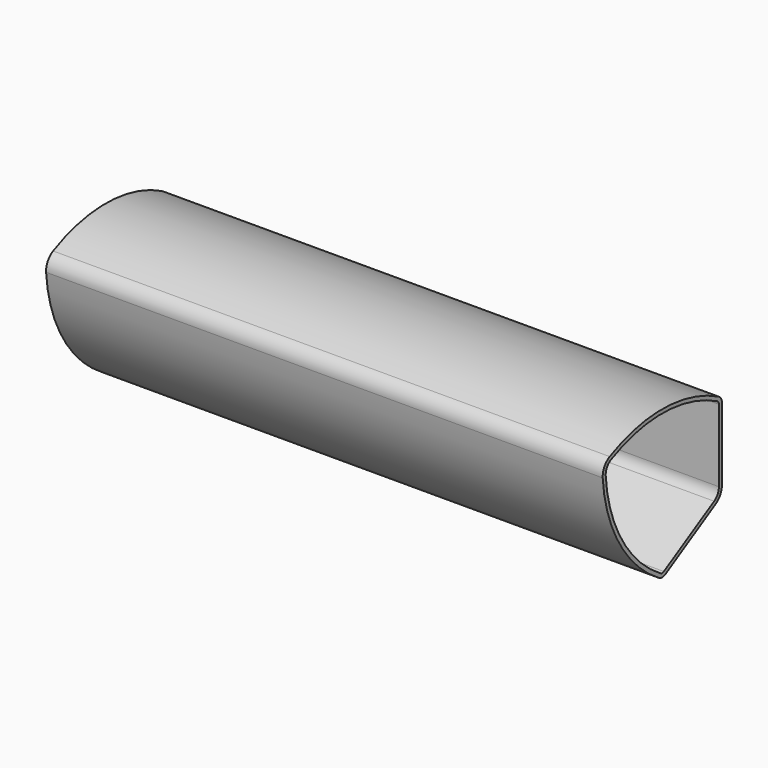
from build123d import *

# Parameters (mm, degrees)
F1_DEPTH = 112.7125
F2_R     = 6.35
F3_R     = 3.175
F4_T     = -1.524


with BuildPart() as f1:
    # F0 (on Right) → F1 (new body, symmetric)
    with BuildSketch(Plane.YZ):
        with BuildLine():
            ThreePointArc((-60.491874, 34.925), (-52.3875, 4.679063), (-30.245937, -17.4625))
            Line((-30.245937, -17.4625), (0, 0))
            Line((0, 0), (0, 34.925))
            ThreePointArc((0, 34.925), (-30.245937, 43.029374), (-60.491874, 34.925))
        make_face()
    extrude(amount=F1_DEPTH, both=True)

    # F2
    f2_edges = [f1.edges().sort_by_distance(p)[0] for p in [
        (0, -60.491874, 34.925),
        (0, 0, 0),
    ]]
    fillet(f2_edges, radius=F2_R)

    # F3
    f3_edges = [f1.edges().sort_by_distance(p)[0] for p in [
        (0, 0, 34.925),
        (0, -30.245937, -17.4625),
    ]]
    fillet(f3_edges, radius=F3_R)

    # F4
    f4_openings = [f1.faces().sort_by_distance(p)[0] for p in [
        (-112.7125, -28.547695, 16.482019),
        (112.7125, -28.547695, 16.482019),
    ]]
    offset(amount=F4_T, openings=f4_openings)


solid = f1.part
